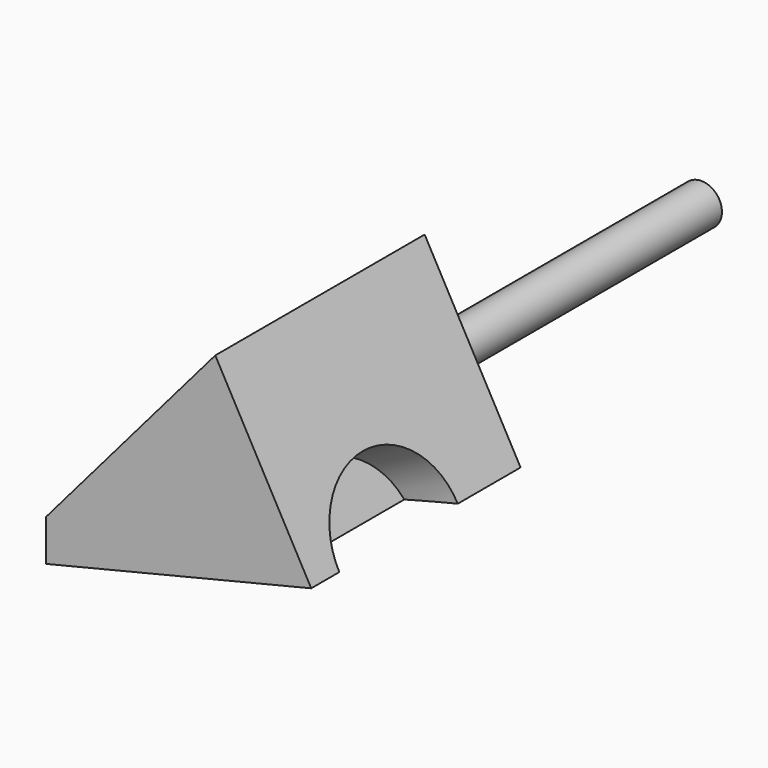
from build123d import *

# Parameters (mm, degrees)
F1_DEPTH = 127.6796478778
F2_R     = 10.0565925357
F3_DEPTH = 204.0422167629
F4_R     = 36.1265659612
F5_DEPTH = 25.4


with BuildPart() as f1:
    # F0 (on Front) → F1 (new body)
    with BuildSketch(Plane.XZ):
        Polygon((28.2338894904, 185.2392554283), (-54.3228834867, 89.0406146646), (-54.3228834867, 68.8263475895), (75.0374570489, 100.4021242261), align=None)
    extrude(amount=F1_DEPTH)

    # F2 (on face) → F3 (join)
    with BuildSketch(Plane(origin=(0, 0, 0), x_dir=(-1, 0, 0), z_dir=(0, 1, 0))):
        with Locations((0, 106.0985550284)):
            Circle(F2_R)
    extrude(amount=F3_DEPTH)

    # F4 (on face) → F5 (cut)
    with BuildSketch(Plane(origin=(99.9939788149, 0, 55.1654078419), x_dir=(0, 1, 0), z_dir=(0.8755913279, 0, 0.4830526126))):
        with Locations((-74.4225531816, 51.6641896083)):
            Circle(F4_R)
    extrude(amount=-F5_DEPTH, mode=Mode.SUBTRACT)


solid = f1.part
